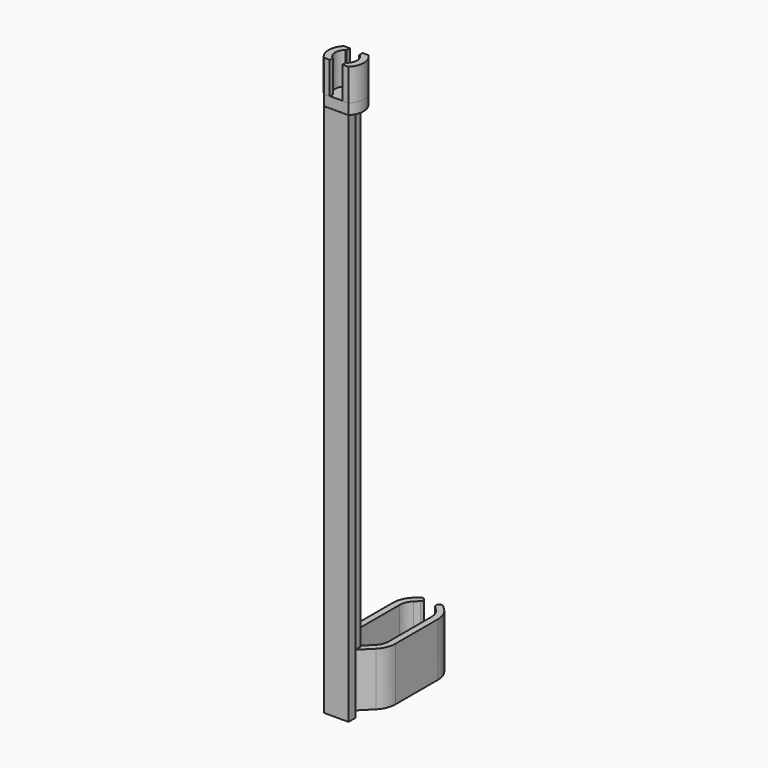
from build123d import *

# Parameters (mm, degrees)
PAD_DEPTH         = 6
PAD001_DEPTH      = 2
PAD002_DEPTH      = 100
SKETCH003_W       = 2.4
SKETCH003_H       = 10
POCKET_DEPTH      = 2.351
POCKET_DEPTH_BACK = -2.351
PAD003_DEPTH      = 10


with BuildPart() as part:
    # Sketch → Pad (new body)
    with BuildSketch(Plane.XY):
        with BuildLine():
            ThreePointArc((-2.3, 2.35), (-3.288237, 0), (-2.3, -2.35))
            Line((-2.3, -2.35), (2.3, -2.35))
            ThreePointArc((2.3, -2.35), (3.288237, 0), (2.3, 2.35))
            Line((-2.3, 2.35), (2.3, 2.35))
        make_face()
        with BuildLine():
            ThreePointArc((1.341641, -1.55), (2.05, 0), (1.341641, 1.55))
            Line((-1.341641, 1.55), (1.341641, 1.55))
            ThreePointArc((-1.341641, 1.55), (-2.05, 0), (-1.341641, -1.55))
            Line((1.341641, -1.55), (-1.341641, -1.55))
        make_face(mode=Mode.SUBTRACT)
    extrude(amount=PAD_DEPTH)

    # Sketch001 → Pad001 (join)
    with BuildSketch(Plane.XY):
        with BuildLine():
            ThreePointArc((-2.3, 2.3), (-3.252691, 0), (-2.3, -2.3))
            Line((-2.3, -2.3), (2.3, -2.3))
            ThreePointArc((2.3, -2.3), (3.252691, 0), (2.3, 2.3))
            Line((-2.3, 2.3), (2.3, 2.3))
        make_face()
    extrude(amount=-PAD001_DEPTH)

    # Sketch002 → Pad002 (join)
    with BuildSketch(Plane.XY.offset(-2)):
        Polygon((-0.8, 2.35), (-0.8, -0.75), (-2.3, -0.75), (-2.3, -2.35), (2.3, -2.35), (2.3, -0.75), (0.8, -0.75), (0.8, 2.35), align=None)
    extrude(amount=-PAD002_DEPTH)

    # Sketch003 → Pocket (cut, two sides)
    with BuildSketch(Plane.XZ) as pocket_sk:
        with Locations((0, 5)):
            Rectangle(SKETCH003_W, SKETCH003_H)
    extrude(amount=-POCKET_DEPTH, mode=Mode.SUBTRACT)
    extrude(pocket_sk.sketch, amount=-POCKET_DEPTH_BACK, mode=Mode.SUBTRACT)

    # Sketch004 → Pad003 (join)
    with BuildSketch(Plane.XY.offset(-102)):
        with BuildLine():
            ThreePointArc((2.12132, 4.12132), (2.771639, 5.09459), (3, 6.242641))
            Line((3, 16.242641), (3, 6.242641))
            ThreePointArc((3, 16.242641), (2.771639, 17.390691), (2.12132, 18.363961))
            Line((2.12132, 18.363961), (1.375736, 19.109545))
            ThreePointArc((2.224264, 19.958074), (1.375736, 19.958074), (1.375736, 19.109545))
            Line((2.969848, 19.212489), (2.224264, 19.958074))
            ThreePointArc((4.2, 16.242641), (3.880294, 17.849911), (2.969848, 19.212489))
            Line((4.2, 16.242641), (4.2, 6.242641))
            ThreePointArc((2.969848, 3.272792), (3.880294, 4.63537), (4.2, 6.242641))
            Line((2.969848, 3.272792), (0, 0.302944))
            Line((0, 2), (0, 0.302944))
            Line((2.12132, 4.12132), (0, 2))
        make_face()
    pad003 = extrude(amount=PAD003_DEPTH)

    # Mirrored: Pad003 across Sketch004 V_Axis
    add(pad003.mirror(Plane(origin=(0, 0, -102), x_dir=(0, 0, 1), z_dir=(1, 0, 0))))


solid = part.part
